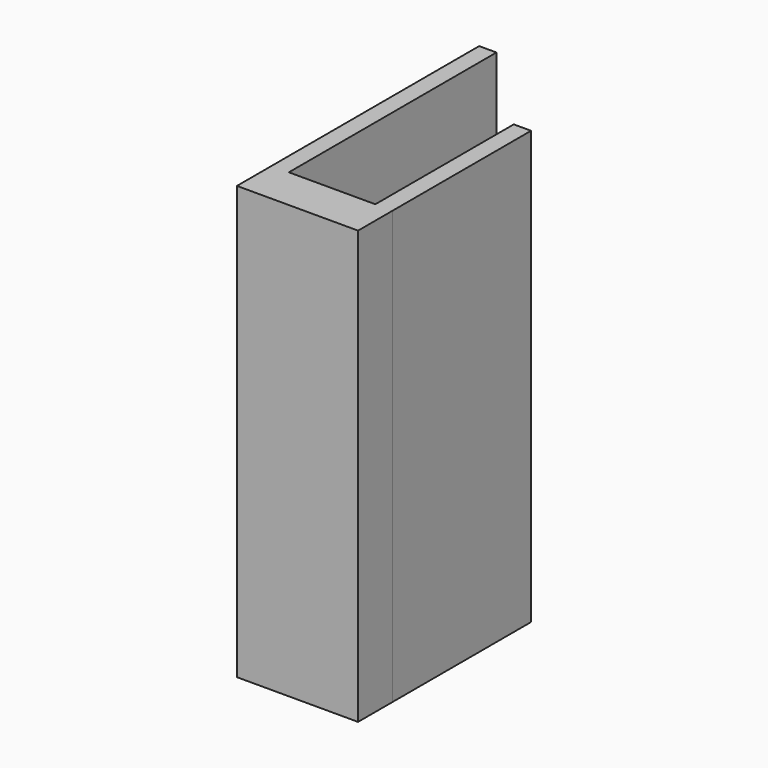
from build123d import *

# Parameters (mm, degrees)
F0_W     = 0.8
F0_H     = 12
F0_H_2   = 8
F1_DEPTH = 20


with BuildPart() as f1:
    # F0 (on Top) → F1 (new body)
    with BuildSketch(Plane.XY):
        with Locations((-2.40001, 7)):
            Rectangle(F0_W, F0_H)
        Polygon((-2.79999, -1), (2.80001, -1), (2.79999, 1), (1.99999, 1), (-2.00001, 1), (-2.80001, 1), align=None)
        with Locations((2.39999, 5)):
            Rectangle(F0_W, F0_H_2)
    extrude(amount=F1_DEPTH)


solid = f1.part
